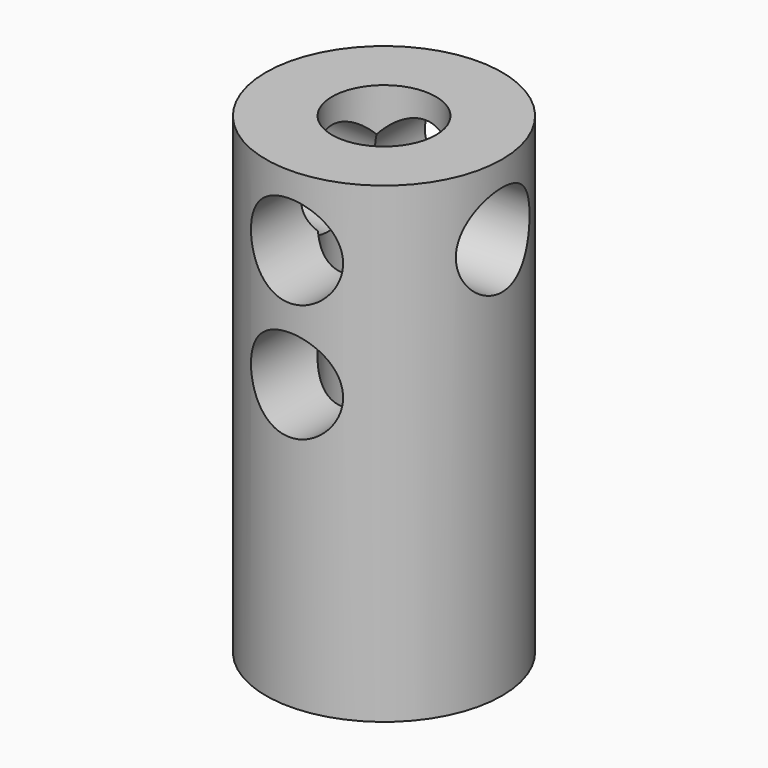
from build123d import *

# Parameters (mm, degrees)
SKETCH001_R     = 5
SKETCH001_R_2   = 2.2
PAD_DEPTH       = 20
SKETCH002_W     = 8
SKETCH002_H     = 6
POCKET_DEPTH    = 8
SKETCH_R        = 1.95
POCKET001_DEPTH = 10.001
SKETCH003_R     = 1.95
POCKET002_DEPTH = 10.001


with BuildPart() as part:
    # Sketch001 → Pad (new body)
    with BuildSketch(Plane.XY):
        with Locations((-5, -5)):
            Circle(SKETCH001_R)
        with Locations((-5, -5)):
            Circle(SKETCH001_R_2, mode=Mode.SUBTRACT)
    extrude(amount=-PAD_DEPTH)

    # Sketch002 → Pocket (cut)
    with BuildSketch(Plane.XZ):
        with Locations((-5, -16)):
            Rectangle(SKETCH002_W, SKETCH002_H)
    extrude(amount=POCKET_DEPTH, mode=Mode.SUBTRACT)

    # Sketch → Pocket001 (cut, through all)
    with BuildSketch(Plane.XZ):
        with Locations((-5, -8)):
            Circle(SKETCH_R)
        with Locations((-5, -3)):
            Circle(SKETCH_R)
    extrude(amount=POCKET001_DEPTH, mode=Mode.SUBTRACT)

    # Sketch003 → Pocket002 (cut, through all)
    with BuildSketch(Plane.YZ):
        with Locations((-5, -3)):
            Circle(SKETCH003_R)
    extrude(amount=-POCKET002_DEPTH, mode=Mode.SUBTRACT)


solid = part.part
